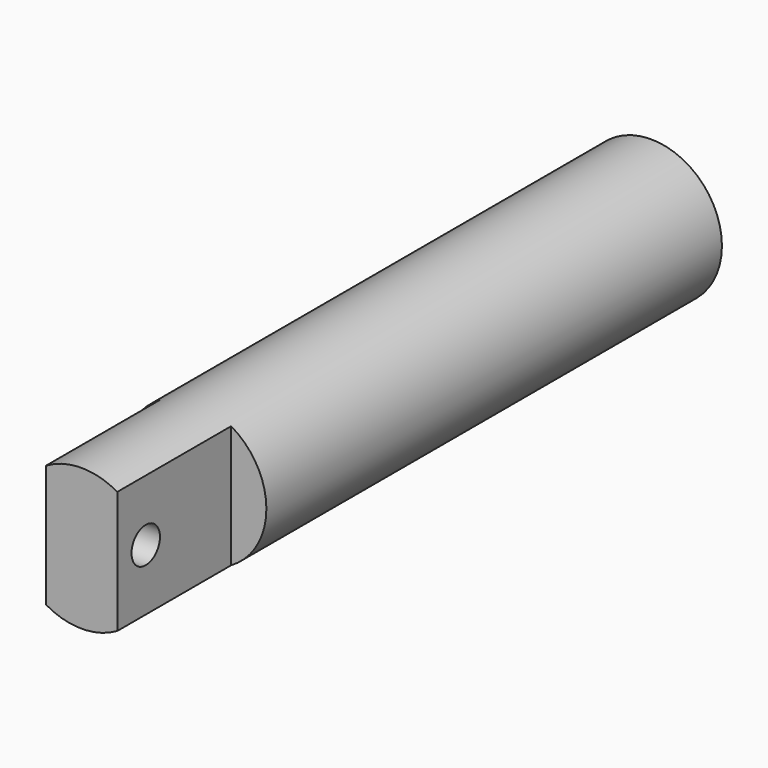
from build123d import *

# Parameters (mm, degrees)
F0_R     = 12.6365
F1_DEPTH = 127
F2_W     = 14.773466
F2_H     = 43.54286
F2_W_2   = 15.551021
F2_H_2   = 44.838779
F3_DEPTH = 25.4
F4_R     = 3.175
F5_DEPTH = 25.4


with BuildPart() as f1:
    # F0 (on Front) → F1 (new body)
    with BuildSketch(Plane.XZ):
        Circle(F0_R)
    extrude(amount=F1_DEPTH)

    # F2 (on face) → F3 (cut)
    with BuildSketch(Plane.XZ.offset(127)):
        with Locations((-13.736733, -1.813887)):
            Rectangle(F2_W, F2_H)
        with Locations((14.125511, -2.461847)):
            Rectangle(F2_W_2, F2_H_2)
    extrude(amount=-F3_DEPTH, mode=Mode.SUBTRACT)

    # F4 (on face) → F5 (cut)
    with BuildSketch(Plane(origin=(-6.35, 0, 0), x_dir=(0, -1, 0), z_dir=(-1, 0, 0))):
        with Locations((120.65, 0)):
            Circle(F4_R)
    extrude(amount=-F5_DEPTH, mode=Mode.SUBTRACT)


solid = f1.part
